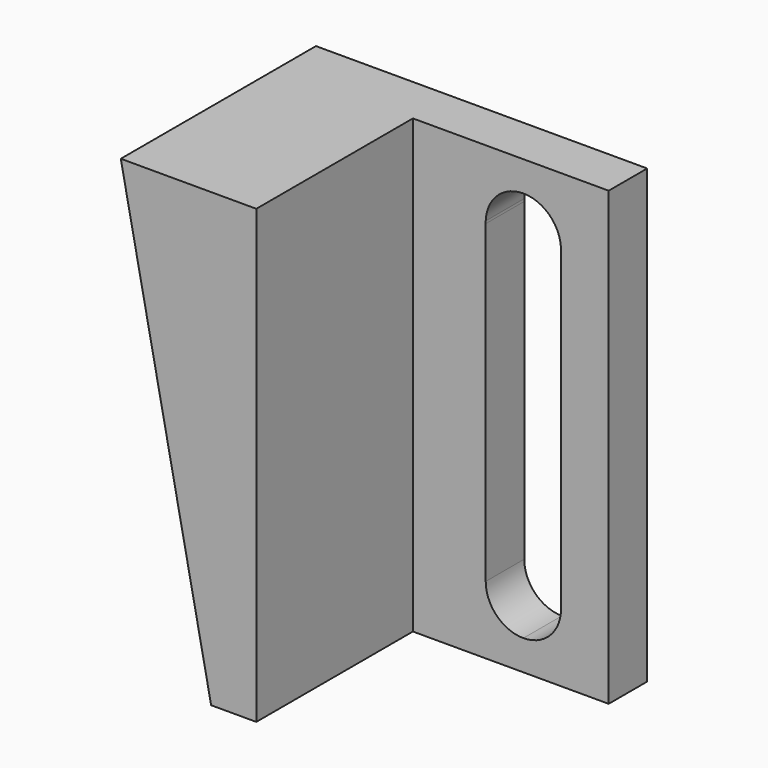
from build123d import *

# Parameters (mm, degrees)
F1_DEPTH = 3.2
F3_DEPTH = 13


with BuildPart() as f1:
    # F0 (on Front) → F1 (new body)
    with BuildSketch(Plane.XZ):
        Polygon((-12.2625976801, 0), (-9.2625976801, 0), (-9.2625976801, 30), (-18.2625976801, 30), align=None)
        with BuildLine():
            Line((-9.2625976801, 0), (-1.9280194538, 0))
            Line((-1.9280194538, 0), (-1.9280194538, 2))
            ThreePointArc((-1.9280194538, 2), (-3.6958427457, 2.7322893878), (-4.4280194487, 4.5001593531))
            Line((-4.4280194487, 4.5001593531), (-4.4266860964, 25.4183604945))
            ThreePointArc((-4.4266860964, 25.4183604945), (-4.4280194487, 25.5001593531), (-4.4266756685, 25.5819580411))
            ThreePointArc((-4.4266756685, 25.5819580411), (-3.6665684029, 27.296509825), (-1.9280194538, 28))
            Line((-1.9280194538, 28), (-1.9280194538, 30))
            Line((-1.9280194538, 30), (-9.2625976801, 30))
            Line((-9.2625976801, 30), (-9.2625976801, 0))
        make_face()
        with BuildLine():
            Line((-1.9280194538, 0), (3.7374023199, 0))
            Line((3.7374023199, 0), (3.7374023199, 30))
            Line((3.7374023199, 30), (-1.9280194538, 30))
            Line((-1.9280194538, 30), (-1.9280194538, 28))
            ThreePointArc((-1.9280194538, 28), (-0.2243237298, 27.3295958243), (0.5656402121, 25.6779367041))
            ThreePointArc((0.5656402121, 25.6779367041), (0.5719804342, 25.500748473), (0.5657463098, 25.3235564774))
            Line((0.5657463098, 25.3235564774), (0.5719804342, 4.500748473))
            ThreePointArc((0.5719804342, 4.500748473), (-0.1599878954, 2.732497692), (-1.9280194538, 2))
            Line((-1.9280194538, 2), (-1.9280194538, 0))
        make_face()
    extrude(amount=F1_DEPTH)

    # F2 (on face) → F3 (join)
    with BuildSketch(Plane.XZ.offset(3.2)):
        Polygon((-9.2625976801, 30), (-18.2625976801, 30), (-12.2625976801, 0), (-9.2625976801, 0), align=None)
    extrude(amount=F3_DEPTH)


solid = f1.part
